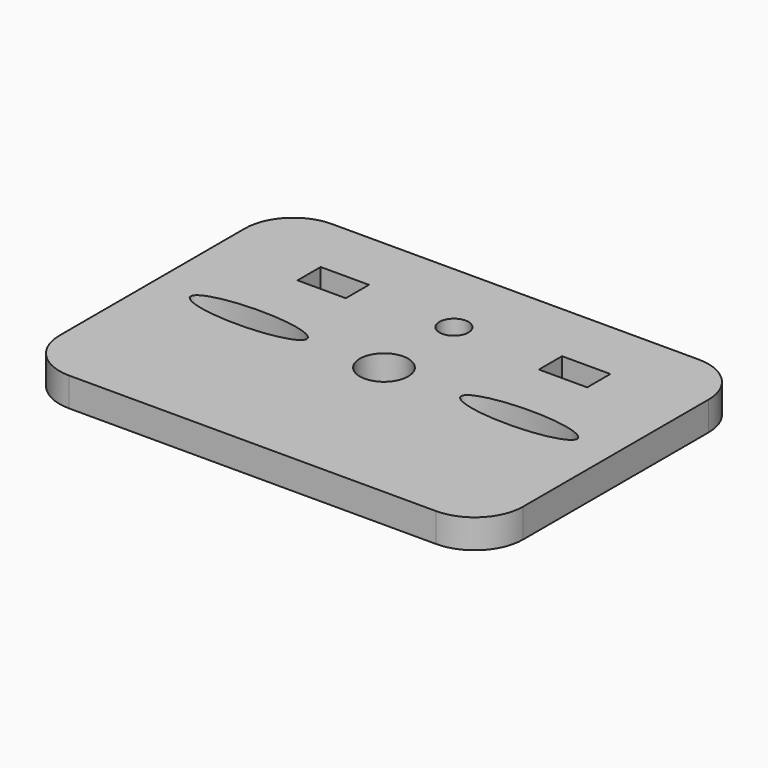
from build123d import *

# Parameters (mm, degrees)
F0_W     = 48
F0_H     = 34
F0_W_2   = 5
F0_H_2   = 3
F1_DEPTH = 3
F3_DEPTH = 25
F4_R     = 1.5
F5_DEPTH = 25
F6_R     = 2.5
F7_DEPTH = 25
F8_R     = 5


with BuildPart() as f1:
    # F0 (on Top) → F1 (new body)
    with BuildSketch(Plane.XY):
        Rectangle(F0_W, F0_H)
        with Locations((-12.5, 9.053119)):
            Rectangle(F0_W_2, F0_H_2, mode=Mode.SUBTRACT)
        with Locations((12.5, 9.053119)):
            Rectangle(F0_W_2, F0_H_2, mode=Mode.SUBTRACT)
    extrude(amount=F1_DEPTH)

    # F2 (on face) → F3 (cut)
    with BuildSketch(Plane.XY.offset(3)):
        with BuildLine():
            add(Edge.make_bspline(
                [(-8, 0), (-8, 2.598076), (-17, 1.299038), (-26, 0), (-17, -1.299038), (-8, -2.598076), (-8, 0)],
                knots=[0, 0, 0, 2.094395, 2.094395, 4.18879, 4.18879, 6.283185, 6.283185, 6.283185], degree=2, weights=[1, 0.5, 1, 0.5, 1, 0.5, 1]))
        make_face()
        with BuildLine():
            add(Edge.make_bspline(
                [(8, 0), (8, -2.598076), (17, -1.299038), (26, 0), (17, 1.299038), (8, 2.598076), (8, 0)],
                knots=[0, 0, 0, 2.094395, 2.094395, 4.18879, 4.18879, 6.283185, 6.283185, 6.283185], degree=2, weights=[1, 0.5, 1, 0.5, 1, 0.5, 1]))
        make_face()
    extrude(amount=-F3_DEPTH, mode=Mode.SUBTRACT)

    # F4 (on face) → F5 (cut)
    with BuildSketch(Plane.XY.offset(3)):
        with Locations((0, 9.053119)):
            Circle(F4_R)
    extrude(amount=-F5_DEPTH, mode=Mode.SUBTRACT)

    # F6 (on face) → F7 (cut)
    with BuildSketch(Plane.XY.offset(3)):
        Circle(F6_R)
    extrude(amount=-F7_DEPTH, mode=Mode.SUBTRACT)

    # F8
    f8_edges = [f1.edges().sort_by_distance(p)[0] for p in [
        (-24, 17, 1.5),
        (24, 17, 1.5),
        (24, -17, 1.5),
        (-24, -17, 1.5),
    ]]
    fillet(f8_edges, radius=F8_R)


solid = f1.part
